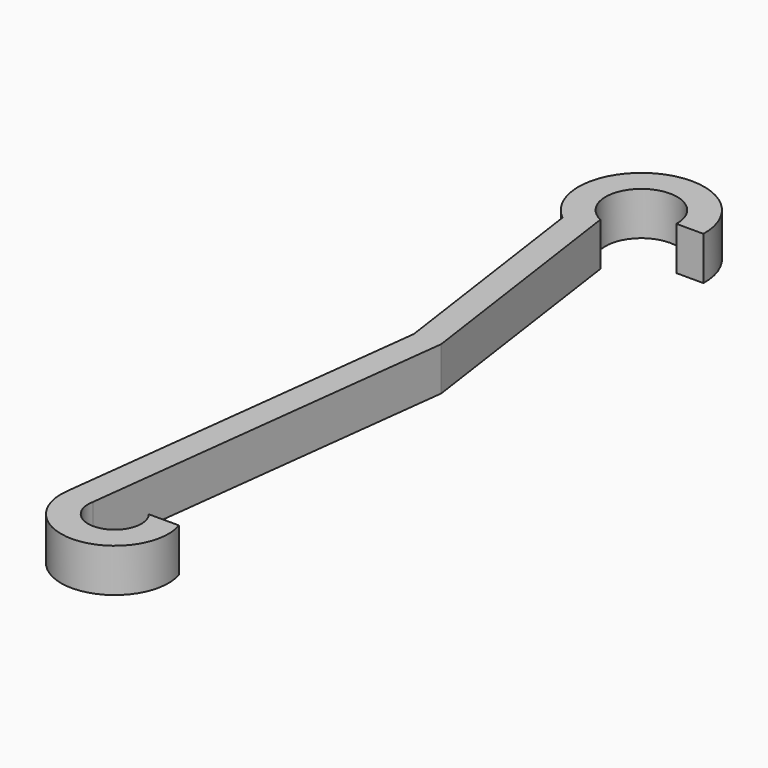
from build123d import *

# Parameters (mm, degrees)
F1_DEPTH = 4


with BuildPart() as f1:
    # F0 (on Top) → F1 (new body)
    with BuildSketch(Plane.XY):
        with BuildLine():
            ThreePointArc((-1.374773, 7.1), (-1.740019, 12.903985), (3.298485, 10))
            Line((3.298485, 10), (5.799138, 10))
            ThreePointArc((5.799138, 10), (-2.428503, 15.367103), (-3.689728, 5.624969))
            Line((-3.689728, 5.624969), (-0.718885, -15.209008))
            Line((-0.718885, -15.209008), (-4.914309, -49.956647))
            ThreePointArc((-4.914309, -49.956647), (0.463907, -55.478214), (4.717256, -49.05))
            Line((4.717256, -49.05), (1.937137, -49.05))
            ThreePointArc((1.937137, -49.05), (0.561754, -52.934729), (-2.402993, -50.072375))
            Line((-2.402993, -50.072375), (1.806404, -15.209008))
            Line((1.806404, -15.209008), (-1.374773, 7.1))
        make_face()
    extrude(amount=F1_DEPTH)


solid = f1.part
